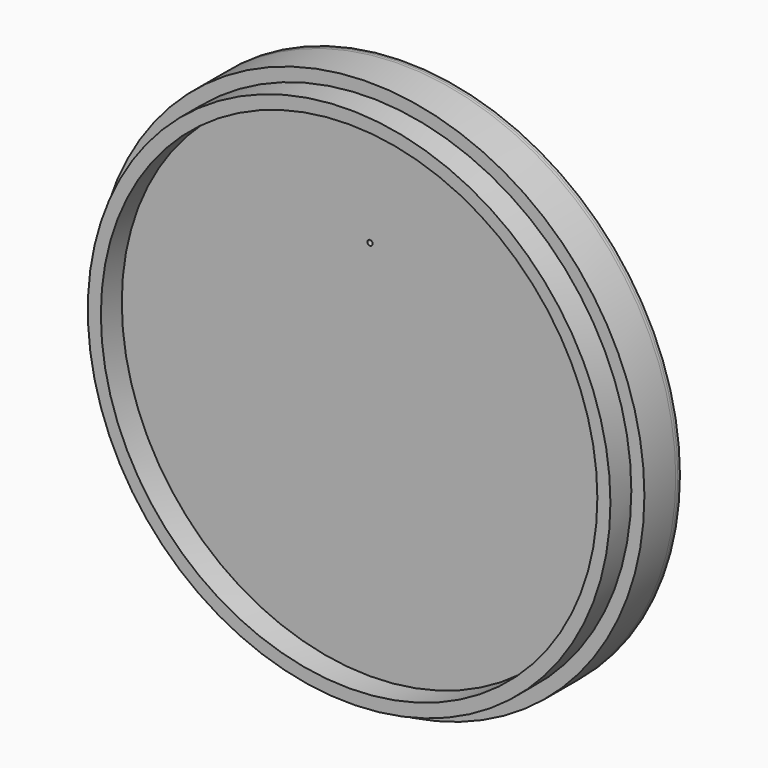
from build123d import *

# Parameters (mm, degrees)
F0_R     = 50
F1_DEPTH = 13
F2_T     = -2.5
F3_R     = 52.5
F3_R_2   = 0.5
F4_DEPTH = 8
F5_DEPTH = 0.5


with BuildPart() as f1:
    # F0 (on Front) → F1 (new body)
    with BuildSketch(Plane.XZ):
        Circle(F0_R)
    extrude(amount=F1_DEPTH)

    # F2
    f2_openings = [f1.faces().sort_by_distance(p)[0] for p in [
        (0, -13, 0),
    ]]
    offset(amount=F2_T, openings=f2_openings)

    # F3 (on Front) → F4 (join)
    with BuildSketch(Plane.XZ):
        Circle(F3_R)
        with Locations((0, 25.5)):
            Circle(F3_R_2, mode=Mode.SUBTRACT)
    extrude(amount=F4_DEPTH)

    # F3 (on Front) → F5 (join, symmetric)
    with BuildSketch(Plane.XZ):
        Circle(F3_R)
        with Locations((0, 25.5)):
            Circle(F3_R_2, mode=Mode.SUBTRACT)
    extrude(amount=F5_DEPTH, both=True)


solid = f1.part
